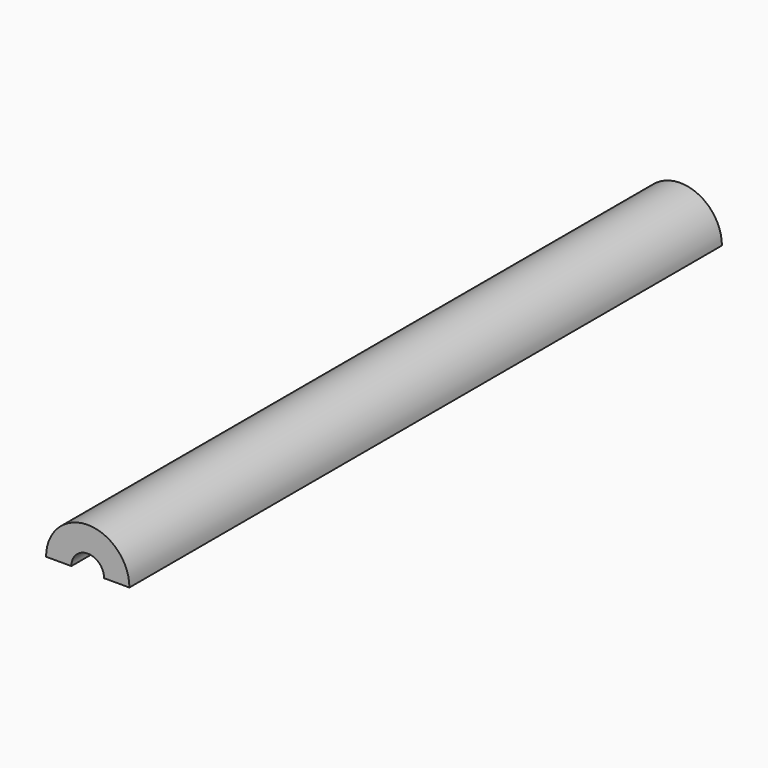
from build123d import *

# Parameters (mm, degrees)
F0_R     = 8.001
F0_R_2   = 3.1450800774
F1_DEPTH = 142.24
F3_DEPTH = 269.494


with BuildPart() as f1:
    # F0 (on Front) → F1 (new body)
    with BuildSketch(Plane.XZ):
        with Locations((-40.3057895601, 23.7623695284)):
            Circle(F0_R)
        with Locations((-40.3057895601, 23.7623695284)):
            Circle(F0_R_2, mode=Mode.SUBTRACT)
    extrude(amount=F1_DEPTH)

    # F2 (on face) → F3 (cut)
    with BuildSketch(Plane.XZ.offset(142.24)):
        with BuildLine():
            Line((-30.5465143174, 23.7623695284), (-32.3047895601, 23.7623695284))
            ThreePointArc((-32.3047895601, 23.7623695284), (-40.3057895601, 15.7613695284), (-48.3067895601, 23.7623695284))
            Line((-48.3067895601, 23.7623695284), (-52.8133995831, 23.7623695284))
            Line((-52.8133995831, 23.7623695284), (-53.4393787384, 18.990367651))
            Line((-53.4393787384, 18.990367651), (-43.6920262873, 13.8931293041))
            Line((-43.6920262873, 13.8931293041), (-30.5465143174, 15.9499105066))
            Line((-30.5465143174, 15.9499105066), (-30.5465143174, 23.7623695284))
        make_face()
        with BuildLine():
            Line((-32.3047895601, 23.7623695284), (-37.1607094827, 23.7623695284))
            ThreePointArc((-37.1607094827, 23.7623695284), (-40.3057895601, 20.617289451), (-43.4508696374, 23.7623695284))
            Line((-43.4508696374, 23.7623695284), (-48.3067895601, 23.7623695284))
            ThreePointArc((-48.3067895601, 23.7623695284), (-40.3057895601, 15.7613695284), (-32.3047895601, 23.7623695284))
        make_face()
    extrude(amount=-F3_DEPTH, mode=Mode.SUBTRACT)


solid = f1.part
